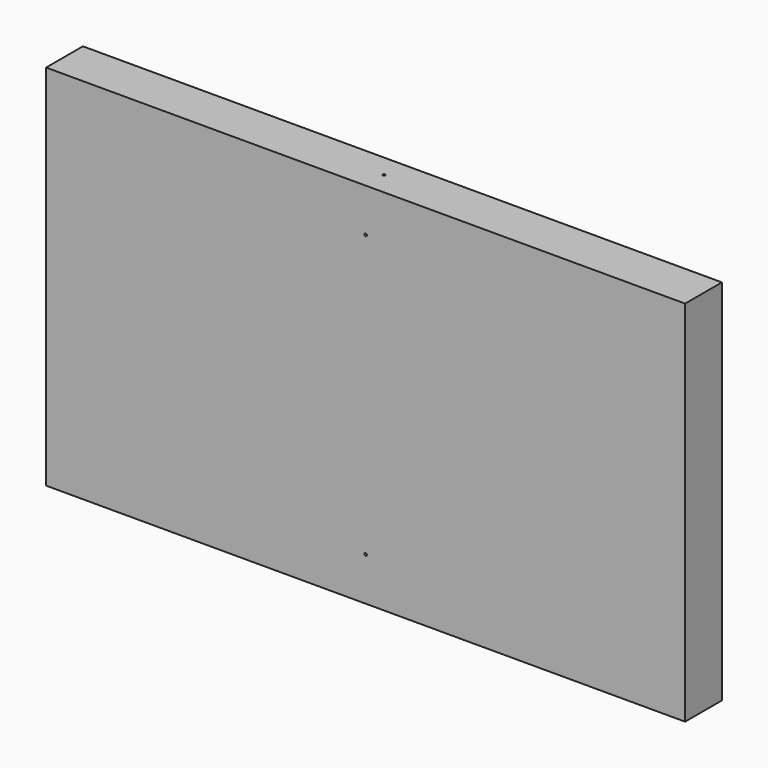
from build123d import *

# Parameters (mm, degrees)
F0_W     = 250
F0_H     = 144
F0_R     = 0.5
F1_DEPTH = 18
F2_R     = 0.5
F3_DEPTH = 1
F4_R     = 0.5
F5_DEPTH = 1


with BuildPart() as f1:
    # F0 (on Front) → F1 (new body)
    with BuildSketch(Plane.XZ):
        with Locations((125, 72)):
            Rectangle(F0_W, F0_H)
        with Locations((125, 17)):
            Circle(F0_R, mode=Mode.SUBTRACT)
        with Locations((125, 127)):
            Circle(F0_R, mode=Mode.SUBTRACT)
    extrude(amount=F1_DEPTH)

    # F2 (on face) → F3 (cut)
    with BuildSketch(Plane(origin=(0, 0, 0), x_dir=(1, 0, 0), z_dir=(0, 0, -1))):
        with Locations((125, 9)):
            Circle(F2_R)
    extrude(amount=-F3_DEPTH, mode=Mode.SUBTRACT)

    # F4 (on face) → F5 (cut)
    with BuildSketch(Plane.XY.offset(144)):
        with Locations((125, -9)):
            Circle(F4_R)
    extrude(amount=-F5_DEPTH, mode=Mode.SUBTRACT)


solid = f1.part
